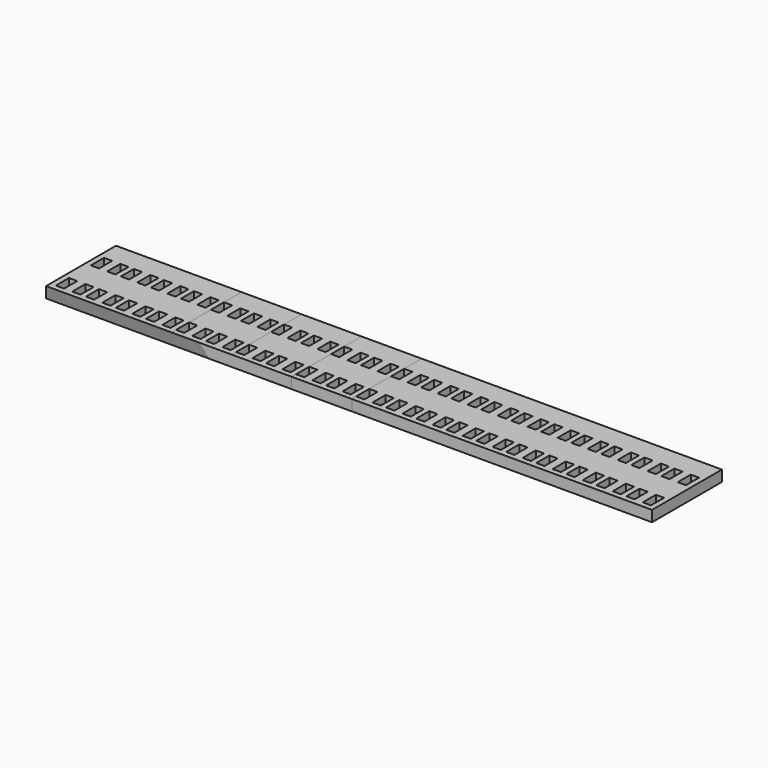
from build123d import *

# Parameters (mm, degrees)
SKETCH006_W      = 67
SKETCH006_H      = 16
SKETCH006_W_2    = 1.5
SKETCH006_H_2    = 3
EXTRUDE003_DEPTH = 2
SKETCH008_W      = 89
SKETCH008_H      = 16
SKETCH008_W_2    = 1.5
SKETCH008_H_2    = 3
EXTRUDE_DEPTH    = 2
SKETCH009_W      = 111
SKETCH009_H      = 16
SKETCH009_W_2    = 1.5
SKETCH009_H_2    = 3
EXTRUDE004_DEPTH = 2
SKETCH010_W      = 56
SKETCH010_H      = 16
SKETCH010_W_2    = 1.5
SKETCH010_H_2    = 3
EXTRUDE005_DEPTH = 2
SKETCH011_W      = 44.99997
SKETCH011_H      = 15.952251
SKETCH011_W_2    = 1.5
SKETCH011_H_2    = 3
EXTRUDE006_DEPTH = 2
SKETCH012_W      = 34
SKETCH012_H      = 16
SKETCH012_W_2    = 1.5
SKETCH012_H_2    = 3
EXTRUDE007_DEPTH = 2
SKETCH013_W      = 23
SKETCH013_H      = 16
SKETCH013_W_2    = 1.5
SKETCH013_H_2    = 3
EXTRUDE008_DEPTH = 2


with BuildPart() as f_12c1r:
    # Sketch006 → Extrude003 (new body)
    with BuildSketch(Plane.XY):
        with Locations((33.5, 8)):
            Rectangle(SKETCH006_W, SKETCH006_H)
        with Locations((1.75, 2.5)):
            Rectangle(SKETCH006_W_2, SKETCH006_H_2, mode=Mode.SUBTRACT)
        with Locations((1.75, 10.5)):
            Rectangle(SKETCH006_W_2, SKETCH006_H_2, mode=Mode.SUBTRACT)
        with Locations((4.75, 10.5)):
            Rectangle(SKETCH006_W_2, SKETCH006_H_2, mode=Mode.SUBTRACT)
        with Locations((4.75, 2.5)):
            Rectangle(SKETCH006_W_2, SKETCH006_H_2, mode=Mode.SUBTRACT)
        with Locations((7.25, 2.5)):
            Rectangle(SKETCH006_W_2, SKETCH006_H_2, mode=Mode.SUBTRACT)
        with Locations((7.25, 10.5)):
            Rectangle(SKETCH006_W_2, SKETCH006_H_2, mode=Mode.SUBTRACT)
        with Locations((10.25, 10.5)):
            Rectangle(SKETCH006_W_2, SKETCH006_H_2, mode=Mode.SUBTRACT)
        with Locations((10.25, 2.5)):
            Rectangle(SKETCH006_W_2, SKETCH006_H_2, mode=Mode.SUBTRACT)
        with Locations((12.75, 2.5)):
            Rectangle(SKETCH006_W_2, SKETCH006_H_2, mode=Mode.SUBTRACT)
        with Locations((12.75, 10.5)):
            Rectangle(SKETCH006_W_2, SKETCH006_H_2, mode=Mode.SUBTRACT)
        with Locations((15.75, 10.5)):
            Rectangle(SKETCH006_W_2, SKETCH006_H_2, mode=Mode.SUBTRACT)
        with Locations((15.75, 2.5)):
            Rectangle(SKETCH006_W_2, SKETCH006_H_2, mode=Mode.SUBTRACT)
        with Locations((18.25, 2.5)):
            Rectangle(SKETCH006_W_2, SKETCH006_H_2, mode=Mode.SUBTRACT)
        with Locations((18.25, 10.5)):
            Rectangle(SKETCH006_W_2, SKETCH006_H_2, mode=Mode.SUBTRACT)
        with Locations((21.25, 10.5)):
            Rectangle(SKETCH006_W_2, SKETCH006_H_2, mode=Mode.SUBTRACT)
        with Locations((21.25, 2.5)):
            Rectangle(SKETCH006_W_2, SKETCH006_H_2, mode=Mode.SUBTRACT)
        with Locations((23.75, 2.5)):
            Rectangle(SKETCH006_W_2, SKETCH006_H_2, mode=Mode.SUBTRACT)
        with Locations((23.75, 10.5)):
            Rectangle(SKETCH006_W_2, SKETCH006_H_2, mode=Mode.SUBTRACT)
        with Locations((26.75, 10.5)):
            Rectangle(SKETCH006_W_2, SKETCH006_H_2, mode=Mode.SUBTRACT)
        with Locations((26.75, 2.5)):
            Rectangle(SKETCH006_W_2, SKETCH006_H_2, mode=Mode.SUBTRACT)
        with Locations((29.25, 2.5)):
            Rectangle(SKETCH006_W_2, SKETCH006_H_2, mode=Mode.SUBTRACT)
        with Locations((29.25, 10.5)):
            Rectangle(SKETCH006_W_2, SKETCH006_H_2, mode=Mode.SUBTRACT)
        with Locations((32.25, 10.5)):
            Rectangle(SKETCH006_W_2, SKETCH006_H_2, mode=Mode.SUBTRACT)
        with Locations((32.25, 2.5)):
            Rectangle(SKETCH006_W_2, SKETCH006_H_2, mode=Mode.SUBTRACT)
        with Locations((34.75, 2.5)):
            Rectangle(SKETCH006_W_2, SKETCH006_H_2, mode=Mode.SUBTRACT)
        with Locations((34.75, 10.5)):
            Rectangle(SKETCH006_W_2, SKETCH006_H_2, mode=Mode.SUBTRACT)
        with Locations((37.75, 10.5)):
            Rectangle(SKETCH006_W_2, SKETCH006_H_2, mode=Mode.SUBTRACT)
        with Locations((37.75, 2.5)):
            Rectangle(SKETCH006_W_2, SKETCH006_H_2, mode=Mode.SUBTRACT)
        with Locations((40.25, 2.5)):
            Rectangle(SKETCH006_W_2, SKETCH006_H_2, mode=Mode.SUBTRACT)
        with Locations((40.25, 10.5)):
            Rectangle(SKETCH006_W_2, SKETCH006_H_2, mode=Mode.SUBTRACT)
        with Locations((43.25, 10.5)):
            Rectangle(SKETCH006_W_2, SKETCH006_H_2, mode=Mode.SUBTRACT)
        with Locations((43.25, 2.5)):
            Rectangle(SKETCH006_W_2, SKETCH006_H_2, mode=Mode.SUBTRACT)
        with Locations((45.75, 2.5)):
            Rectangle(SKETCH006_W_2, SKETCH006_H_2, mode=Mode.SUBTRACT)
        with Locations((45.75, 10.5)):
            Rectangle(SKETCH006_W_2, SKETCH006_H_2, mode=Mode.SUBTRACT)
        with Locations((48.75, 10.5)):
            Rectangle(SKETCH006_W_2, SKETCH006_H_2, mode=Mode.SUBTRACT)
        with Locations((48.75, 2.5)):
            Rectangle(SKETCH006_W_2, SKETCH006_H_2, mode=Mode.SUBTRACT)
        with Locations((51.25, 2.5)):
            Rectangle(SKETCH006_W_2, SKETCH006_H_2, mode=Mode.SUBTRACT)
        with Locations((51.25, 10.5)):
            Rectangle(SKETCH006_W_2, SKETCH006_H_2, mode=Mode.SUBTRACT)
        with Locations((54.25, 10.5)):
            Rectangle(SKETCH006_W_2, SKETCH006_H_2, mode=Mode.SUBTRACT)
        with Locations((54.25, 2.5)):
            Rectangle(SKETCH006_W_2, SKETCH006_H_2, mode=Mode.SUBTRACT)
        with Locations((56.75, 2.5)):
            Rectangle(SKETCH006_W_2, SKETCH006_H_2, mode=Mode.SUBTRACT)
        with Locations((56.75, 10.5)):
            Rectangle(SKETCH006_W_2, SKETCH006_H_2, mode=Mode.SUBTRACT)
        with Locations((59.75, 10.5)):
            Rectangle(SKETCH006_W_2, SKETCH006_H_2, mode=Mode.SUBTRACT)
        with Locations((59.75, 2.5)):
            Rectangle(SKETCH006_W_2, SKETCH006_H_2, mode=Mode.SUBTRACT)
        with Locations((62.25, 2.5)):
            Rectangle(SKETCH006_W_2, SKETCH006_H_2, mode=Mode.SUBTRACT)
        with Locations((62.25, 10.5)):
            Rectangle(SKETCH006_W_2, SKETCH006_H_2, mode=Mode.SUBTRACT)
        with Locations((65.25, 10.5)):
            Rectangle(SKETCH006_W_2, SKETCH006_H_2, mode=Mode.SUBTRACT)
        with Locations((65.25, 2.5)):
            Rectangle(SKETCH006_W_2, SKETCH006_H_2, mode=Mode.SUBTRACT)
    extrude(amount=EXTRUDE003_DEPTH)


with BuildPart() as f_16c1r:
    # Sketch008 → Extrude (new body)
    with BuildSketch(Plane.XY):
        with Locations((44.5, 8)):
            Rectangle(SKETCH008_W, SKETCH008_H)
        with Locations((1.75, 2.5)):
            Rectangle(SKETCH008_W_2, SKETCH008_H_2, mode=Mode.SUBTRACT)
        with Locations((1.75, 10.5)):
            Rectangle(SKETCH008_W_2, SKETCH008_H_2, mode=Mode.SUBTRACT)
        with Locations((4.75, 10.5)):
            Rectangle(SKETCH008_W_2, SKETCH008_H_2, mode=Mode.SUBTRACT)
        with Locations((4.75, 2.5)):
            Rectangle(SKETCH008_W_2, SKETCH008_H_2, mode=Mode.SUBTRACT)
        with Locations((7.25, 2.5)):
            Rectangle(SKETCH008_W_2, SKETCH008_H_2, mode=Mode.SUBTRACT)
        with Locations((7.25, 10.5)):
            Rectangle(SKETCH008_W_2, SKETCH008_H_2, mode=Mode.SUBTRACT)
        with Locations((10.25, 10.5)):
            Rectangle(SKETCH008_W_2, SKETCH008_H_2, mode=Mode.SUBTRACT)
        with Locations((10.25, 2.5)):
            Rectangle(SKETCH008_W_2, SKETCH008_H_2, mode=Mode.SUBTRACT)
        with Locations((12.75, 2.5)):
            Rectangle(SKETCH008_W_2, SKETCH008_H_2, mode=Mode.SUBTRACT)
        with Locations((12.75, 10.5)):
            Rectangle(SKETCH008_W_2, SKETCH008_H_2, mode=Mode.SUBTRACT)
        with Locations((15.75, 10.5)):
            Rectangle(SKETCH008_W_2, SKETCH008_H_2, mode=Mode.SUBTRACT)
        with Locations((15.75, 2.5)):
            Rectangle(SKETCH008_W_2, SKETCH008_H_2, mode=Mode.SUBTRACT)
        with Locations((18.25, 2.5)):
            Rectangle(SKETCH008_W_2, SKETCH008_H_2, mode=Mode.SUBTRACT)
        with Locations((18.25, 10.5)):
            Rectangle(SKETCH008_W_2, SKETCH008_H_2, mode=Mode.SUBTRACT)
        with Locations((21.25, 10.5)):
            Rectangle(SKETCH008_W_2, SKETCH008_H_2, mode=Mode.SUBTRACT)
        with Locations((21.25, 2.5)):
            Rectangle(SKETCH008_W_2, SKETCH008_H_2, mode=Mode.SUBTRACT)
        with Locations((23.75, 2.5)):
            Rectangle(SKETCH008_W_2, SKETCH008_H_2, mode=Mode.SUBTRACT)
        with Locations((23.75, 10.5)):
            Rectangle(SKETCH008_W_2, SKETCH008_H_2, mode=Mode.SUBTRACT)
        with Locations((26.75, 10.5)):
            Rectangle(SKETCH008_W_2, SKETCH008_H_2, mode=Mode.SUBTRACT)
        with Locations((26.75, 2.5)):
            Rectangle(SKETCH008_W_2, SKETCH008_H_2, mode=Mode.SUBTRACT)
        with Locations((29.25, 2.5)):
            Rectangle(SKETCH008_W_2, SKETCH008_H_2, mode=Mode.SUBTRACT)
        with Locations((29.25, 10.5)):
            Rectangle(SKETCH008_W_2, SKETCH008_H_2, mode=Mode.SUBTRACT)
        with Locations((32.25, 10.5)):
            Rectangle(SKETCH008_W_2, SKETCH008_H_2, mode=Mode.SUBTRACT)
        with Locations((32.25, 2.5)):
            Rectangle(SKETCH008_W_2, SKETCH008_H_2, mode=Mode.SUBTRACT)
        with Locations((34.75, 2.5)):
            Rectangle(SKETCH008_W_2, SKETCH008_H_2, mode=Mode.SUBTRACT)
        with Locations((34.75, 10.5)):
            Rectangle(SKETCH008_W_2, SKETCH008_H_2, mode=Mode.SUBTRACT)
        with Locations((37.75, 10.5)):
            Rectangle(SKETCH008_W_2, SKETCH008_H_2, mode=Mode.SUBTRACT)
        with Locations((37.75, 2.5)):
            Rectangle(SKETCH008_W_2, SKETCH008_H_2, mode=Mode.SUBTRACT)
        with Locations((40.25, 2.5)):
            Rectangle(SKETCH008_W_2, SKETCH008_H_2, mode=Mode.SUBTRACT)
        with Locations((40.25, 10.5)):
            Rectangle(SKETCH008_W_2, SKETCH008_H_2, mode=Mode.SUBTRACT)
        with Locations((43.25, 10.5)):
            Rectangle(SKETCH008_W_2, SKETCH008_H_2, mode=Mode.SUBTRACT)
        with Locations((43.25, 2.5)):
            Rectangle(SKETCH008_W_2, SKETCH008_H_2, mode=Mode.SUBTRACT)
        with Locations((45.75, 2.5)):
            Rectangle(SKETCH008_W_2, SKETCH008_H_2, mode=Mode.SUBTRACT)
        with Locations((45.75, 10.5)):
            Rectangle(SKETCH008_W_2, SKETCH008_H_2, mode=Mode.SUBTRACT)
        with Locations((48.75, 10.5)):
            Rectangle(SKETCH008_W_2, SKETCH008_H_2, mode=Mode.SUBTRACT)
        with Locations((48.75, 2.5)):
            Rectangle(SKETCH008_W_2, SKETCH008_H_2, mode=Mode.SUBTRACT)
        with Locations((51.25, 2.5)):
            Rectangle(SKETCH008_W_2, SKETCH008_H_2, mode=Mode.SUBTRACT)
        with Locations((51.25, 10.5)):
            Rectangle(SKETCH008_W_2, SKETCH008_H_2, mode=Mode.SUBTRACT)
        with Locations((54.25, 10.5)):
            Rectangle(SKETCH008_W_2, SKETCH008_H_2, mode=Mode.SUBTRACT)
        with Locations((54.25, 2.5)):
            Rectangle(SKETCH008_W_2, SKETCH008_H_2, mode=Mode.SUBTRACT)
        with Locations((56.75, 2.5)):
            Rectangle(SKETCH008_W_2, SKETCH008_H_2, mode=Mode.SUBTRACT)
        with Locations((56.75, 10.5)):
            Rectangle(SKETCH008_W_2, SKETCH008_H_2, mode=Mode.SUBTRACT)
        with Locations((59.75, 10.5)):
            Rectangle(SKETCH008_W_2, SKETCH008_H_2, mode=Mode.SUBTRACT)
        with Locations((59.75, 2.5)):
            Rectangle(SKETCH008_W_2, SKETCH008_H_2, mode=Mode.SUBTRACT)
        with Locations((62.25, 2.5)):
            Rectangle(SKETCH008_W_2, SKETCH008_H_2, mode=Mode.SUBTRACT)
        with Locations((62.25, 10.5)):
            Rectangle(SKETCH008_W_2, SKETCH008_H_2, mode=Mode.SUBTRACT)
        with Locations((65.25, 10.5)):
            Rectangle(SKETCH008_W_2, SKETCH008_H_2, mode=Mode.SUBTRACT)
        with Locations((65.25, 2.5)):
            Rectangle(SKETCH008_W_2, SKETCH008_H_2, mode=Mode.SUBTRACT)
        with Locations((67.75, 2.5)):
            Rectangle(SKETCH008_W_2, SKETCH008_H_2, mode=Mode.SUBTRACT)
        with Locations((67.75, 10.5)):
            Rectangle(SKETCH008_W_2, SKETCH008_H_2, mode=Mode.SUBTRACT)
        with Locations((70.75, 10.5)):
            Rectangle(SKETCH008_W_2, SKETCH008_H_2, mode=Mode.SUBTRACT)
        with Locations((70.75, 2.5)):
            Rectangle(SKETCH008_W_2, SKETCH008_H_2, mode=Mode.SUBTRACT)
        with Locations((73.25, 2.5)):
            Rectangle(SKETCH008_W_2, SKETCH008_H_2, mode=Mode.SUBTRACT)
        with Locations((73.25, 10.5)):
            Rectangle(SKETCH008_W_2, SKETCH008_H_2, mode=Mode.SUBTRACT)
        with Locations((76.25, 10.5)):
            Rectangle(SKETCH008_W_2, SKETCH008_H_2, mode=Mode.SUBTRACT)
        with Locations((76.25, 2.5)):
            Rectangle(SKETCH008_W_2, SKETCH008_H_2, mode=Mode.SUBTRACT)
        with Locations((78.75, 2.5)):
            Rectangle(SKETCH008_W_2, SKETCH008_H_2, mode=Mode.SUBTRACT)
        with Locations((78.75, 10.5)):
            Rectangle(SKETCH008_W_2, SKETCH008_H_2, mode=Mode.SUBTRACT)
        with Locations((81.75, 10.5)):
            Rectangle(SKETCH008_W_2, SKETCH008_H_2, mode=Mode.SUBTRACT)
        with Locations((81.75, 2.5)):
            Rectangle(SKETCH008_W_2, SKETCH008_H_2, mode=Mode.SUBTRACT)
        with Locations((84.25, 2.5)):
            Rectangle(SKETCH008_W_2, SKETCH008_H_2, mode=Mode.SUBTRACT)
        with Locations((84.25, 10.5)):
            Rectangle(SKETCH008_W_2, SKETCH008_H_2, mode=Mode.SUBTRACT)
        with Locations((87.25, 10.5)):
            Rectangle(SKETCH008_W_2, SKETCH008_H_2, mode=Mode.SUBTRACT)
        with Locations((87.25, 2.5)):
            Rectangle(SKETCH008_W_2, SKETCH008_H_2, mode=Mode.SUBTRACT)
    extrude(amount=EXTRUDE_DEPTH)


with BuildPart() as f_20c1r:
    # Sketch009 → Extrude004 (new body)
    with BuildSketch(Plane.XY):
        with Locations((55.5, 8)):
            Rectangle(SKETCH009_W, SKETCH009_H)
        with Locations((1.75, 2.5)):
            Rectangle(SKETCH009_W_2, SKETCH009_H_2, mode=Mode.SUBTRACT)
        with Locations((1.75, 10.5)):
            Rectangle(SKETCH009_W_2, SKETCH009_H_2, mode=Mode.SUBTRACT)
        with Locations((4.75, 10.5)):
            Rectangle(SKETCH009_W_2, SKETCH009_H_2, mode=Mode.SUBTRACT)
        with Locations((4.75, 2.5)):
            Rectangle(SKETCH009_W_2, SKETCH009_H_2, mode=Mode.SUBTRACT)
        with Locations((7.25, 2.5)):
            Rectangle(SKETCH009_W_2, SKETCH009_H_2, mode=Mode.SUBTRACT)
        with Locations((7.25, 10.5)):
            Rectangle(SKETCH009_W_2, SKETCH009_H_2, mode=Mode.SUBTRACT)
        with Locations((10.25, 10.5)):
            Rectangle(SKETCH009_W_2, SKETCH009_H_2, mode=Mode.SUBTRACT)
        with Locations((10.25, 2.5)):
            Rectangle(SKETCH009_W_2, SKETCH009_H_2, mode=Mode.SUBTRACT)
        with Locations((12.75, 2.5)):
            Rectangle(SKETCH009_W_2, SKETCH009_H_2, mode=Mode.SUBTRACT)
        with Locations((12.75, 10.5)):
            Rectangle(SKETCH009_W_2, SKETCH009_H_2, mode=Mode.SUBTRACT)
        with Locations((15.75, 10.5)):
            Rectangle(SKETCH009_W_2, SKETCH009_H_2, mode=Mode.SUBTRACT)
        with Locations((15.75, 2.5)):
            Rectangle(SKETCH009_W_2, SKETCH009_H_2, mode=Mode.SUBTRACT)
        with Locations((18.25, 2.5)):
            Rectangle(SKETCH009_W_2, SKETCH009_H_2, mode=Mode.SUBTRACT)
        with Locations((18.25, 10.5)):
            Rectangle(SKETCH009_W_2, SKETCH009_H_2, mode=Mode.SUBTRACT)
        with Locations((21.25, 10.5)):
            Rectangle(SKETCH009_W_2, SKETCH009_H_2, mode=Mode.SUBTRACT)
        with Locations((21.25, 2.5)):
            Rectangle(SKETCH009_W_2, SKETCH009_H_2, mode=Mode.SUBTRACT)
        with Locations((23.75, 2.5)):
            Rectangle(SKETCH009_W_2, SKETCH009_H_2, mode=Mode.SUBTRACT)
        with Locations((23.75, 10.5)):
            Rectangle(SKETCH009_W_2, SKETCH009_H_2, mode=Mode.SUBTRACT)
        with Locations((26.75, 10.5)):
            Rectangle(SKETCH009_W_2, SKETCH009_H_2, mode=Mode.SUBTRACT)
        with Locations((26.75, 2.5)):
            Rectangle(SKETCH009_W_2, SKETCH009_H_2, mode=Mode.SUBTRACT)
        with Locations((29.25, 2.5)):
            Rectangle(SKETCH009_W_2, SKETCH009_H_2, mode=Mode.SUBTRACT)
        with Locations((29.25, 10.5)):
            Rectangle(SKETCH009_W_2, SKETCH009_H_2, mode=Mode.SUBTRACT)
        with Locations((32.25, 10.5)):
            Rectangle(SKETCH009_W_2, SKETCH009_H_2, mode=Mode.SUBTRACT)
        with Locations((32.25, 2.5)):
            Rectangle(SKETCH009_W_2, SKETCH009_H_2, mode=Mode.SUBTRACT)
        with Locations((34.75, 2.5)):
            Rectangle(SKETCH009_W_2, SKETCH009_H_2, mode=Mode.SUBTRACT)
        with Locations((34.75, 10.5)):
            Rectangle(SKETCH009_W_2, SKETCH009_H_2, mode=Mode.SUBTRACT)
        with Locations((37.75, 10.5)):
            Rectangle(SKETCH009_W_2, SKETCH009_H_2, mode=Mode.SUBTRACT)
        with Locations((37.75, 2.5)):
            Rectangle(SKETCH009_W_2, SKETCH009_H_2, mode=Mode.SUBTRACT)
        with Locations((40.25, 2.5)):
            Rectangle(SKETCH009_W_2, SKETCH009_H_2, mode=Mode.SUBTRACT)
        with Locations((40.25, 10.5)):
            Rectangle(SKETCH009_W_2, SKETCH009_H_2, mode=Mode.SUBTRACT)
        with Locations((43.25, 10.5)):
            Rectangle(SKETCH009_W_2, SKETCH009_H_2, mode=Mode.SUBTRACT)
        with Locations((43.25, 2.5)):
            Rectangle(SKETCH009_W_2, SKETCH009_H_2, mode=Mode.SUBTRACT)
        with Locations((45.75, 2.5)):
            Rectangle(SKETCH009_W_2, SKETCH009_H_2, mode=Mode.SUBTRACT)
        with Locations((45.75, 10.5)):
            Rectangle(SKETCH009_W_2, SKETCH009_H_2, mode=Mode.SUBTRACT)
        with Locations((48.75, 10.5)):
            Rectangle(SKETCH009_W_2, SKETCH009_H_2, mode=Mode.SUBTRACT)
        with Locations((48.75, 2.5)):
            Rectangle(SKETCH009_W_2, SKETCH009_H_2, mode=Mode.SUBTRACT)
        with Locations((51.25, 2.5)):
            Rectangle(SKETCH009_W_2, SKETCH009_H_2, mode=Mode.SUBTRACT)
        with Locations((51.25, 10.5)):
            Rectangle(SKETCH009_W_2, SKETCH009_H_2, mode=Mode.SUBTRACT)
        with Locations((54.25, 10.5)):
            Rectangle(SKETCH009_W_2, SKETCH009_H_2, mode=Mode.SUBTRACT)
        with Locations((54.25, 2.5)):
            Rectangle(SKETCH009_W_2, SKETCH009_H_2, mode=Mode.SUBTRACT)
        with Locations((56.75, 2.5)):
            Rectangle(SKETCH009_W_2, SKETCH009_H_2, mode=Mode.SUBTRACT)
        with Locations((56.75, 10.5)):
            Rectangle(SKETCH009_W_2, SKETCH009_H_2, mode=Mode.SUBTRACT)
        with Locations((59.75, 10.5)):
            Rectangle(SKETCH009_W_2, SKETCH009_H_2, mode=Mode.SUBTRACT)
        with Locations((59.75, 2.5)):
            Rectangle(SKETCH009_W_2, SKETCH009_H_2, mode=Mode.SUBTRACT)
        with Locations((62.25, 2.5)):
            Rectangle(SKETCH009_W_2, SKETCH009_H_2, mode=Mode.SUBTRACT)
        with Locations((62.25, 10.5)):
            Rectangle(SKETCH009_W_2, SKETCH009_H_2, mode=Mode.SUBTRACT)
        with Locations((65.25, 10.5)):
            Rectangle(SKETCH009_W_2, SKETCH009_H_2, mode=Mode.SUBTRACT)
        with Locations((65.25, 2.5)):
            Rectangle(SKETCH009_W_2, SKETCH009_H_2, mode=Mode.SUBTRACT)
        with Locations((67.75, 2.5)):
            Rectangle(SKETCH009_W_2, SKETCH009_H_2, mode=Mode.SUBTRACT)
        with Locations((67.75, 10.5)):
            Rectangle(SKETCH009_W_2, SKETCH009_H_2, mode=Mode.SUBTRACT)
        with Locations((70.75, 10.5)):
            Rectangle(SKETCH009_W_2, SKETCH009_H_2, mode=Mode.SUBTRACT)
        with Locations((70.75, 2.5)):
            Rectangle(SKETCH009_W_2, SKETCH009_H_2, mode=Mode.SUBTRACT)
        with Locations((73.25, 2.5)):
            Rectangle(SKETCH009_W_2, SKETCH009_H_2, mode=Mode.SUBTRACT)
        with Locations((73.25, 10.5)):
            Rectangle(SKETCH009_W_2, SKETCH009_H_2, mode=Mode.SUBTRACT)
        with Locations((76.25, 10.5)):
            Rectangle(SKETCH009_W_2, SKETCH009_H_2, mode=Mode.SUBTRACT)
        with Locations((76.25, 2.5)):
            Rectangle(SKETCH009_W_2, SKETCH009_H_2, mode=Mode.SUBTRACT)
        with Locations((78.75, 2.5)):
            Rectangle(SKETCH009_W_2, SKETCH009_H_2, mode=Mode.SUBTRACT)
        with Locations((78.75, 10.5)):
            Rectangle(SKETCH009_W_2, SKETCH009_H_2, mode=Mode.SUBTRACT)
        with Locations((81.75, 10.5)):
            Rectangle(SKETCH009_W_2, SKETCH009_H_2, mode=Mode.SUBTRACT)
        with Locations((81.75, 2.5)):
            Rectangle(SKETCH009_W_2, SKETCH009_H_2, mode=Mode.SUBTRACT)
        with Locations((84.25, 2.5)):
            Rectangle(SKETCH009_W_2, SKETCH009_H_2, mode=Mode.SUBTRACT)
        with Locations((84.25, 10.5)):
            Rectangle(SKETCH009_W_2, SKETCH009_H_2, mode=Mode.SUBTRACT)
        with Locations((87.25, 10.5)):
            Rectangle(SKETCH009_W_2, SKETCH009_H_2, mode=Mode.SUBTRACT)
        with Locations((87.25, 2.5)):
            Rectangle(SKETCH009_W_2, SKETCH009_H_2, mode=Mode.SUBTRACT)
        with Locations((89.75, 2.5)):
            Rectangle(SKETCH009_W_2, SKETCH009_H_2, mode=Mode.SUBTRACT)
        with Locations((89.75, 10.5)):
            Rectangle(SKETCH009_W_2, SKETCH009_H_2, mode=Mode.SUBTRACT)
        with Locations((92.75, 10.5)):
            Rectangle(SKETCH009_W_2, SKETCH009_H_2, mode=Mode.SUBTRACT)
        with Locations((92.75, 2.5)):
            Rectangle(SKETCH009_W_2, SKETCH009_H_2, mode=Mode.SUBTRACT)
        with Locations((95.25, 2.5)):
            Rectangle(SKETCH009_W_2, SKETCH009_H_2, mode=Mode.SUBTRACT)
        with Locations((95.25, 10.5)):
            Rectangle(SKETCH009_W_2, SKETCH009_H_2, mode=Mode.SUBTRACT)
        with Locations((98.25, 10.5)):
            Rectangle(SKETCH009_W_2, SKETCH009_H_2, mode=Mode.SUBTRACT)
        with Locations((98.25, 2.5)):
            Rectangle(SKETCH009_W_2, SKETCH009_H_2, mode=Mode.SUBTRACT)
        with Locations((100.75, 2.5)):
            Rectangle(SKETCH009_W_2, SKETCH009_H_2, mode=Mode.SUBTRACT)
        with Locations((100.75, 10.5)):
            Rectangle(SKETCH009_W_2, SKETCH009_H_2, mode=Mode.SUBTRACT)
        with Locations((103.75, 10.5)):
            Rectangle(SKETCH009_W_2, SKETCH009_H_2, mode=Mode.SUBTRACT)
        with Locations((103.75, 2.5)):
            Rectangle(SKETCH009_W_2, SKETCH009_H_2, mode=Mode.SUBTRACT)
        with Locations((106.25, 2.5)):
            Rectangle(SKETCH009_W_2, SKETCH009_H_2, mode=Mode.SUBTRACT)
        with Locations((106.25, 10.5)):
            Rectangle(SKETCH009_W_2, SKETCH009_H_2, mode=Mode.SUBTRACT)
        with Locations((109.25, 10.5)):
            Rectangle(SKETCH009_W_2, SKETCH009_H_2, mode=Mode.SUBTRACT)
        with Locations((109.25, 2.5)):
            Rectangle(SKETCH009_W_2, SKETCH009_H_2, mode=Mode.SUBTRACT)
    extrude(amount=EXTRUDE004_DEPTH)


with BuildPart() as f_10c1r:
    # Sketch010 → Extrude005 (new body)
    with BuildSketch(Plane.XY):
        with Locations((28, 8)):
            Rectangle(SKETCH010_W, SKETCH010_H)
        with Locations((1.75, 2.5)):
            Rectangle(SKETCH010_W_2, SKETCH010_H_2, mode=Mode.SUBTRACT)
        with Locations((1.75, 10.5)):
            Rectangle(SKETCH010_W_2, SKETCH010_H_2, mode=Mode.SUBTRACT)
        with Locations((4.75, 10.5)):
            Rectangle(SKETCH010_W_2, SKETCH010_H_2, mode=Mode.SUBTRACT)
        with Locations((4.75, 2.5)):
            Rectangle(SKETCH010_W_2, SKETCH010_H_2, mode=Mode.SUBTRACT)
        with Locations((7.25, 2.5)):
            Rectangle(SKETCH010_W_2, SKETCH010_H_2, mode=Mode.SUBTRACT)
        with Locations((7.25, 10.5)):
            Rectangle(SKETCH010_W_2, SKETCH010_H_2, mode=Mode.SUBTRACT)
        with Locations((10.25, 10.5)):
            Rectangle(SKETCH010_W_2, SKETCH010_H_2, mode=Mode.SUBTRACT)
        with Locations((10.25, 2.5)):
            Rectangle(SKETCH010_W_2, SKETCH010_H_2, mode=Mode.SUBTRACT)
        with Locations((12.75, 2.5)):
            Rectangle(SKETCH010_W_2, SKETCH010_H_2, mode=Mode.SUBTRACT)
        with Locations((12.75, 10.5)):
            Rectangle(SKETCH010_W_2, SKETCH010_H_2, mode=Mode.SUBTRACT)
        with Locations((15.75, 10.5)):
            Rectangle(SKETCH010_W_2, SKETCH010_H_2, mode=Mode.SUBTRACT)
        with Locations((15.75, 2.5)):
            Rectangle(SKETCH010_W_2, SKETCH010_H_2, mode=Mode.SUBTRACT)
        with Locations((18.25, 2.5)):
            Rectangle(SKETCH010_W_2, SKETCH010_H_2, mode=Mode.SUBTRACT)
        with Locations((18.25, 10.5)):
            Rectangle(SKETCH010_W_2, SKETCH010_H_2, mode=Mode.SUBTRACT)
        with Locations((21.25, 10.5)):
            Rectangle(SKETCH010_W_2, SKETCH010_H_2, mode=Mode.SUBTRACT)
        with Locations((21.25, 2.5)):
            Rectangle(SKETCH010_W_2, SKETCH010_H_2, mode=Mode.SUBTRACT)
        with Locations((23.75, 2.5)):
            Rectangle(SKETCH010_W_2, SKETCH010_H_2, mode=Mode.SUBTRACT)
        with Locations((23.75, 10.5)):
            Rectangle(SKETCH010_W_2, SKETCH010_H_2, mode=Mode.SUBTRACT)
        with Locations((26.75, 10.5)):
            Rectangle(SKETCH010_W_2, SKETCH010_H_2, mode=Mode.SUBTRACT)
        with Locations((26.75, 2.5)):
            Rectangle(SKETCH010_W_2, SKETCH010_H_2, mode=Mode.SUBTRACT)
        with Locations((29.25, 2.5)):
            Rectangle(SKETCH010_W_2, SKETCH010_H_2, mode=Mode.SUBTRACT)
        with Locations((29.25, 10.5)):
            Rectangle(SKETCH010_W_2, SKETCH010_H_2, mode=Mode.SUBTRACT)
        with Locations((32.25, 10.5)):
            Rectangle(SKETCH010_W_2, SKETCH010_H_2, mode=Mode.SUBTRACT)
        with Locations((32.25, 2.5)):
            Rectangle(SKETCH010_W_2, SKETCH010_H_2, mode=Mode.SUBTRACT)
        with Locations((34.75, 2.5)):
            Rectangle(SKETCH010_W_2, SKETCH010_H_2, mode=Mode.SUBTRACT)
        with Locations((34.75, 10.5)):
            Rectangle(SKETCH010_W_2, SKETCH010_H_2, mode=Mode.SUBTRACT)
        with Locations((37.75, 10.5)):
            Rectangle(SKETCH010_W_2, SKETCH010_H_2, mode=Mode.SUBTRACT)
        with Locations((37.75, 2.5)):
            Rectangle(SKETCH010_W_2, SKETCH010_H_2, mode=Mode.SUBTRACT)
        with Locations((40.25, 2.5)):
            Rectangle(SKETCH010_W_2, SKETCH010_H_2, mode=Mode.SUBTRACT)
        with Locations((40.25, 10.5)):
            Rectangle(SKETCH010_W_2, SKETCH010_H_2, mode=Mode.SUBTRACT)
        with Locations((43.25, 10.5)):
            Rectangle(SKETCH010_W_2, SKETCH010_H_2, mode=Mode.SUBTRACT)
        with Locations((43.25, 2.5)):
            Rectangle(SKETCH010_W_2, SKETCH010_H_2, mode=Mode.SUBTRACT)
        with Locations((45.75, 2.5)):
            Rectangle(SKETCH010_W_2, SKETCH010_H_2, mode=Mode.SUBTRACT)
        with Locations((45.75, 10.5)):
            Rectangle(SKETCH010_W_2, SKETCH010_H_2, mode=Mode.SUBTRACT)
        with Locations((48.75, 10.5)):
            Rectangle(SKETCH010_W_2, SKETCH010_H_2, mode=Mode.SUBTRACT)
        with Locations((48.75, 2.5)):
            Rectangle(SKETCH010_W_2, SKETCH010_H_2, mode=Mode.SUBTRACT)
        with Locations((51.25, 2.5)):
            Rectangle(SKETCH010_W_2, SKETCH010_H_2, mode=Mode.SUBTRACT)
        with Locations((51.25, 10.5)):
            Rectangle(SKETCH010_W_2, SKETCH010_H_2, mode=Mode.SUBTRACT)
        with Locations((54.25, 10.5)):
            Rectangle(SKETCH010_W_2, SKETCH010_H_2, mode=Mode.SUBTRACT)
        with Locations((54.25, 2.5)):
            Rectangle(SKETCH010_W_2, SKETCH010_H_2, mode=Mode.SUBTRACT)
    extrude(amount=EXTRUDE005_DEPTH)


with BuildPart() as f_8c1r:
    # Sketch011 → Extrude006 (new body)
    with BuildSketch(Plane.XY):
        with Locations((22.499985, 7.976125)):
            Rectangle(SKETCH011_W, SKETCH011_H)
        with Locations((1.75, 2.5)):
            Rectangle(SKETCH011_W_2, SKETCH011_H_2, mode=Mode.SUBTRACT)
        with Locations((1.75, 10.5)):
            Rectangle(SKETCH011_W_2, SKETCH011_H_2, mode=Mode.SUBTRACT)
        with Locations((4.75, 10.5)):
            Rectangle(SKETCH011_W_2, SKETCH011_H_2, mode=Mode.SUBTRACT)
        with Locations((4.75, 2.5)):
            Rectangle(SKETCH011_W_2, SKETCH011_H_2, mode=Mode.SUBTRACT)
        with Locations((7.249996, 2.493179)):
            Rectangle(SKETCH011_W_2, SKETCH011_H_2, mode=Mode.SUBTRACT)
        with Locations((7.249996, 10.493179)):
            Rectangle(SKETCH011_W_2, SKETCH011_H_2, mode=Mode.SUBTRACT)
        with Locations((10.249996, 10.493179)):
            Rectangle(SKETCH011_W_2, SKETCH011_H_2, mode=Mode.SUBTRACT)
        with Locations((10.249996, 2.493179)):
            Rectangle(SKETCH011_W_2, SKETCH011_H_2, mode=Mode.SUBTRACT)
        with Locations((12.749992, 2.486357)):
            Rectangle(SKETCH011_W_2, SKETCH011_H_2, mode=Mode.SUBTRACT)
        with Locations((12.749992, 10.486357)):
            Rectangle(SKETCH011_W_2, SKETCH011_H_2, mode=Mode.SUBTRACT)
        with Locations((15.749992, 10.486357)):
            Rectangle(SKETCH011_W_2, SKETCH011_H_2, mode=Mode.SUBTRACT)
        with Locations((15.749992, 2.486357)):
            Rectangle(SKETCH011_W_2, SKETCH011_H_2, mode=Mode.SUBTRACT)
        with Locations((18.249987, 2.479536)):
            Rectangle(SKETCH011_W_2, SKETCH011_H_2, mode=Mode.SUBTRACT)
        with Locations((18.249987, 10.479536)):
            Rectangle(SKETCH011_W_2, SKETCH011_H_2, mode=Mode.SUBTRACT)
        with Locations((21.249987, 10.479536)):
            Rectangle(SKETCH011_W_2, SKETCH011_H_2, mode=Mode.SUBTRACT)
        with Locations((21.249987, 2.479536)):
            Rectangle(SKETCH011_W_2, SKETCH011_H_2, mode=Mode.SUBTRACT)
        with Locations((23.749983, 2.472715)):
            Rectangle(SKETCH011_W_2, SKETCH011_H_2, mode=Mode.SUBTRACT)
        with Locations((23.749983, 10.472715)):
            Rectangle(SKETCH011_W_2, SKETCH011_H_2, mode=Mode.SUBTRACT)
        with Locations((26.749983, 10.472715)):
            Rectangle(SKETCH011_W_2, SKETCH011_H_2, mode=Mode.SUBTRACT)
        with Locations((26.749983, 2.472715)):
            Rectangle(SKETCH011_W_2, SKETCH011_H_2, mode=Mode.SUBTRACT)
        with Locations((29.249979, 2.465894)):
            Rectangle(SKETCH011_W_2, SKETCH011_H_2, mode=Mode.SUBTRACT)
        with Locations((29.249979, 10.465894)):
            Rectangle(SKETCH011_W_2, SKETCH011_H_2, mode=Mode.SUBTRACT)
        with Locations((32.249979, 10.465894)):
            Rectangle(SKETCH011_W_2, SKETCH011_H_2, mode=Mode.SUBTRACT)
        with Locations((32.249979, 2.465894)):
            Rectangle(SKETCH011_W_2, SKETCH011_H_2, mode=Mode.SUBTRACT)
        with Locations((34.749975, 2.459072)):
            Rectangle(SKETCH011_W_2, SKETCH011_H_2, mode=Mode.SUBTRACT)
        with Locations((34.749975, 10.459072)):
            Rectangle(SKETCH011_W_2, SKETCH011_H_2, mode=Mode.SUBTRACT)
        with Locations((37.749975, 10.459072)):
            Rectangle(SKETCH011_W_2, SKETCH011_H_2, mode=Mode.SUBTRACT)
        with Locations((37.749975, 2.459072)):
            Rectangle(SKETCH011_W_2, SKETCH011_H_2, mode=Mode.SUBTRACT)
        with Locations((40.24997, 2.452251)):
            Rectangle(SKETCH011_W_2, SKETCH011_H_2, mode=Mode.SUBTRACT)
        with Locations((40.24997, 10.452251)):
            Rectangle(SKETCH011_W_2, SKETCH011_H_2, mode=Mode.SUBTRACT)
        with Locations((43.24997, 10.452251)):
            Rectangle(SKETCH011_W_2, SKETCH011_H_2, mode=Mode.SUBTRACT)
        with Locations((43.24997, 2.452251)):
            Rectangle(SKETCH011_W_2, SKETCH011_H_2, mode=Mode.SUBTRACT)
    extrude(amount=EXTRUDE006_DEPTH)


with BuildPart() as f_6c1r:
    # Sketch012 → Extrude007 (new body)
    with BuildSketch(Plane.XY):
        with Locations((17, 8)):
            Rectangle(SKETCH012_W, SKETCH012_H)
        with Locations((1.75, 2.5)):
            Rectangle(SKETCH012_W_2, SKETCH012_H_2, mode=Mode.SUBTRACT)
        with Locations((1.75, 10.5)):
            Rectangle(SKETCH012_W_2, SKETCH012_H_2, mode=Mode.SUBTRACT)
        with Locations((4.75, 10.5)):
            Rectangle(SKETCH012_W_2, SKETCH012_H_2, mode=Mode.SUBTRACT)
        with Locations((4.75, 2.5)):
            Rectangle(SKETCH012_W_2, SKETCH012_H_2, mode=Mode.SUBTRACT)
        with Locations((7.25, 2.5)):
            Rectangle(SKETCH012_W_2, SKETCH012_H_2, mode=Mode.SUBTRACT)
        with Locations((7.25, 10.5)):
            Rectangle(SKETCH012_W_2, SKETCH012_H_2, mode=Mode.SUBTRACT)
        with Locations((10.25, 10.5)):
            Rectangle(SKETCH012_W_2, SKETCH012_H_2, mode=Mode.SUBTRACT)
        with Locations((10.25, 2.5)):
            Rectangle(SKETCH012_W_2, SKETCH012_H_2, mode=Mode.SUBTRACT)
        with Locations((12.75, 2.5)):
            Rectangle(SKETCH012_W_2, SKETCH012_H_2, mode=Mode.SUBTRACT)
        with Locations((12.75, 10.5)):
            Rectangle(SKETCH012_W_2, SKETCH012_H_2, mode=Mode.SUBTRACT)
        with Locations((15.75, 10.5)):
            Rectangle(SKETCH012_W_2, SKETCH012_H_2, mode=Mode.SUBTRACT)
        with Locations((15.75, 2.5)):
            Rectangle(SKETCH012_W_2, SKETCH012_H_2, mode=Mode.SUBTRACT)
        with Locations((18.25, 2.5)):
            Rectangle(SKETCH012_W_2, SKETCH012_H_2, mode=Mode.SUBTRACT)
        with Locations((18.25, 10.5)):
            Rectangle(SKETCH012_W_2, SKETCH012_H_2, mode=Mode.SUBTRACT)
        with Locations((21.25, 10.5)):
            Rectangle(SKETCH012_W_2, SKETCH012_H_2, mode=Mode.SUBTRACT)
        with Locations((21.25, 2.5)):
            Rectangle(SKETCH012_W_2, SKETCH012_H_2, mode=Mode.SUBTRACT)
        with Locations((23.75, 2.5)):
            Rectangle(SKETCH012_W_2, SKETCH012_H_2, mode=Mode.SUBTRACT)
        with Locations((23.75, 10.5)):
            Rectangle(SKETCH012_W_2, SKETCH012_H_2, mode=Mode.SUBTRACT)
        with Locations((26.75, 10.5)):
            Rectangle(SKETCH012_W_2, SKETCH012_H_2, mode=Mode.SUBTRACT)
        with Locations((26.75, 2.5)):
            Rectangle(SKETCH012_W_2, SKETCH012_H_2, mode=Mode.SUBTRACT)
        with Locations((29.25, 2.5)):
            Rectangle(SKETCH012_W_2, SKETCH012_H_2, mode=Mode.SUBTRACT)
        with Locations((29.25, 10.5)):
            Rectangle(SKETCH012_W_2, SKETCH012_H_2, mode=Mode.SUBTRACT)
        with Locations((32.25, 10.5)):
            Rectangle(SKETCH012_W_2, SKETCH012_H_2, mode=Mode.SUBTRACT)
        with Locations((32.25, 2.5)):
            Rectangle(SKETCH012_W_2, SKETCH012_H_2, mode=Mode.SUBTRACT)
    extrude(amount=EXTRUDE007_DEPTH)


with BuildPart() as f_4c1r:
    # Sketch013 → Extrude008 (new body)
    with BuildSketch(Plane.XY):
        with Locations((11.5, 8)):
            Rectangle(SKETCH013_W, SKETCH013_H)
        with Locations((1.75, 2.5)):
            Rectangle(SKETCH013_W_2, SKETCH013_H_2, mode=Mode.SUBTRACT)
        with Locations((1.75, 10.5)):
            Rectangle(SKETCH013_W_2, SKETCH013_H_2, mode=Mode.SUBTRACT)
        with Locations((4.75, 10.5)):
            Rectangle(SKETCH013_W_2, SKETCH013_H_2, mode=Mode.SUBTRACT)
        with Locations((4.75, 2.5)):
            Rectangle(SKETCH013_W_2, SKETCH013_H_2, mode=Mode.SUBTRACT)
        with Locations((7.25, 2.5)):
            Rectangle(SKETCH013_W_2, SKETCH013_H_2, mode=Mode.SUBTRACT)
        with Locations((7.25, 10.5)):
            Rectangle(SKETCH013_W_2, SKETCH013_H_2, mode=Mode.SUBTRACT)
        with Locations((10.25, 10.5)):
            Rectangle(SKETCH013_W_2, SKETCH013_H_2, mode=Mode.SUBTRACT)
        with Locations((10.25, 2.5)):
            Rectangle(SKETCH013_W_2, SKETCH013_H_2, mode=Mode.SUBTRACT)
        with Locations((12.75, 2.5)):
            Rectangle(SKETCH013_W_2, SKETCH013_H_2, mode=Mode.SUBTRACT)
        with Locations((12.75, 10.5)):
            Rectangle(SKETCH013_W_2, SKETCH013_H_2, mode=Mode.SUBTRACT)
        with Locations((15.75, 10.5)):
            Rectangle(SKETCH013_W_2, SKETCH013_H_2, mode=Mode.SUBTRACT)
        with Locations((15.75, 2.5)):
            Rectangle(SKETCH013_W_2, SKETCH013_H_2, mode=Mode.SUBTRACT)
        with Locations((18.25, 2.5)):
            Rectangle(SKETCH013_W_2, SKETCH013_H_2, mode=Mode.SUBTRACT)
        with Locations((18.25, 10.5)):
            Rectangle(SKETCH013_W_2, SKETCH013_H_2, mode=Mode.SUBTRACT)
        with Locations((21.25, 10.5)):
            Rectangle(SKETCH013_W_2, SKETCH013_H_2, mode=Mode.SUBTRACT)
        with Locations((21.25, 2.5)):
            Rectangle(SKETCH013_W_2, SKETCH013_H_2, mode=Mode.SUBTRACT)
    extrude(amount=EXTRUDE008_DEPTH)


solid = Compound([f_12c1r.part, f_16c1r.part, f_20c1r.part, f_10c1r.part, f_8c1r.part, f_6c1r.part, f_4c1r.part])
